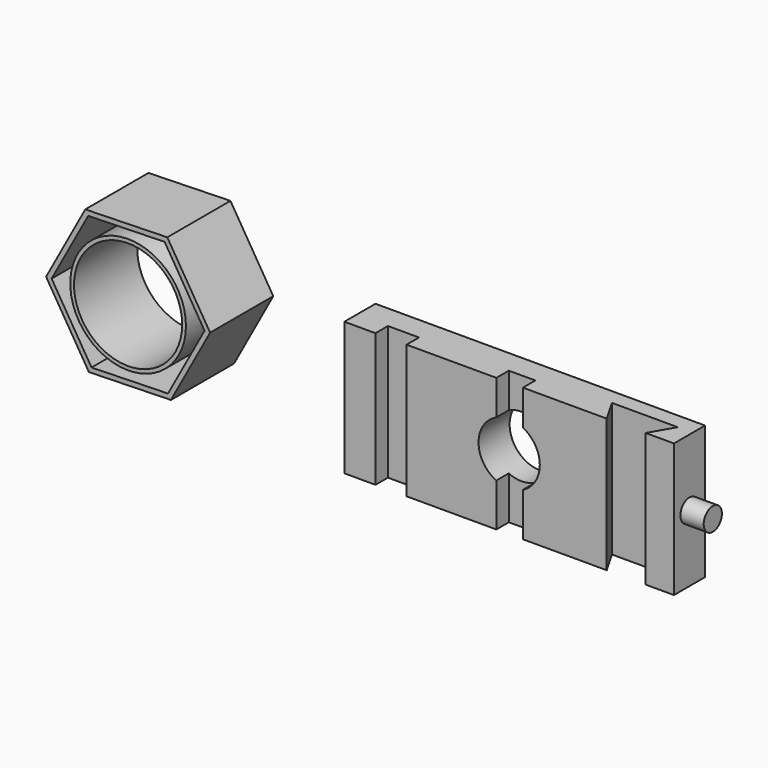
from build123d import *

# Parameters (mm, degrees)
F1_DEPTH  = 50.8
F0_R      = 37.2201453229
F0_R_2    = 34.8006762107
F2_DEPTH  = 50.8
F3_DEPTH  = 5.08
F4_W      = 212.0530977845
F4_H      = 85.894934833
F4_R      = 19.7047808414
F5_DEPTH  = 25
F6_W      = 20
F6_H      = 85.894934833
F7_DEPTH  = 10
F9_DEPTH  = 113.8456119818
F10_R     = 7.3254233904
F11_DEPTH = 15


with BuildPart() as f1:
    # F0 (on Front) → F1 (new body)
    with BuildSketch(Plane.XZ):
        Polygon((-188.680538046, -23.1838232474), (-163.4557758693, 23.1838232474), (-190.9989545592, 68.2129313442), (-243.7668954257, 66.8743929462), (-268.9916576024, 20.5067464514), (-241.4484789125, -24.5223616454), align=None)
        Polygon((-192.705711989, 65.075604435), (-167.0261593876, 23.0932550851), (-190.5441641345, -20.1370645005), (-239.7417214827, -21.3850347361), (-265.4212740841, 20.5973146137), (-241.9032693372, 63.8276341993), align=None, mode=Mode.SUBTRACT)
    extrude(amount=F1_DEPTH)


with BuildPart() as f2:
    # F0 (on Front) → F2 (new body)
    with BuildSketch(Plane.XZ):
        with Locations((-216.2237167358, 21.8452848494)):
            Circle(F0_R)
        with Locations((-216.2237167358, 21.8452848494)):
            Circle(F0_R_2, mode=Mode.SUBTRACT)
    extrude(amount=F2_DEPTH)


with BuildPart() as f3:
    # F0 (on Front) → F3 (new body)
    with BuildSketch(Plane.XZ):
        Polygon((-190.5441641345, -20.1370645005), (-167.0261593876, 23.0932550851), (-192.705711989, 65.075604435), (-241.9032693372, 63.8276341993), (-265.4212740841, 20.5973146137), (-239.7417214827, -21.3850347361), align=None)
        with Locations((-216.2237167358, 21.8452848494)):
            Circle(F0_R, mode=Mode.SUBTRACT)
    extrude(amount=F3_DEPTH)


with BuildPart() as f5:
    # F4 (on Front) → F5 (new body)
    with BuildSketch(Plane.XZ):
        with Locations((8.3210729063, -2.6842132211)):
            Rectangle(F4_W, F4_H)
        with Locations((8.3210729063, 0)):
            Circle(F4_R, mode=Mode.SUBTRACT)
    extrude(amount=F5_DEPTH)

    # F6 (on face) → F7 (cut)
    with BuildSketch(Plane.XZ.offset(25)):
        with Locations((-67.705475986, -2.6842132211)):
            Rectangle(F6_W, F6_H)
        with BuildLine():
            Line((0.065697066, -17.892097634), (0.065697066, -45.6316806376))
            Line((0.065697066, -45.6316806376), (17.1479461715, -45.6316806376))
            Line((17.1479461715, -45.6316806376), (17.1479461715, -17.6171704984))
            ThreePointArc((17.1479461715, -17.6171704984), (8.6381668342, -19.7022293015), (0.065697066, -17.892097634))
        make_face()
        with BuildLine():
            Line((17.1479461715, 40.2632541955), (0.065697066, 40.2632541955))
            Line((0.065697066, 40.2632541955), (0.065697066, 17.892097634))
            ThreePointArc((0.065697066, 17.892097634), (8.6381668342, 19.7022293015), (17.1479461715, 17.6171704984))
            Line((17.1479461715, 17.6171704984), (17.1479461715, 40.2632541955))
        make_face()
    extrude(amount=-F7_DEPTH, mode=Mode.SUBTRACT)

    # F8 (on face) → F9 (cut, through all)
    with BuildSketch(Plane(origin=(0, 0, -45.6316806376), x_dir=(1, 0, 0), z_dir=(0, 0, -1))):
        Polygon((96.1068216187, 25), (71.1068216187, 25), (62.4465675809, 10), (104.7670756566, 10), align=None)
    extrude(amount=-F9_DEPTH, mode=Mode.SUBTRACT)

    # F10 (on face) → F11 (join)
    with BuildSketch(Plane.YZ.offset(114.3476217985)):
        with Locations((-12.5, -2.6842132211)):
            Circle(F10_R)
    extrude(amount=F11_DEPTH)


solid = Compound([f1.part, f2.part, f3.part, f5.part])
